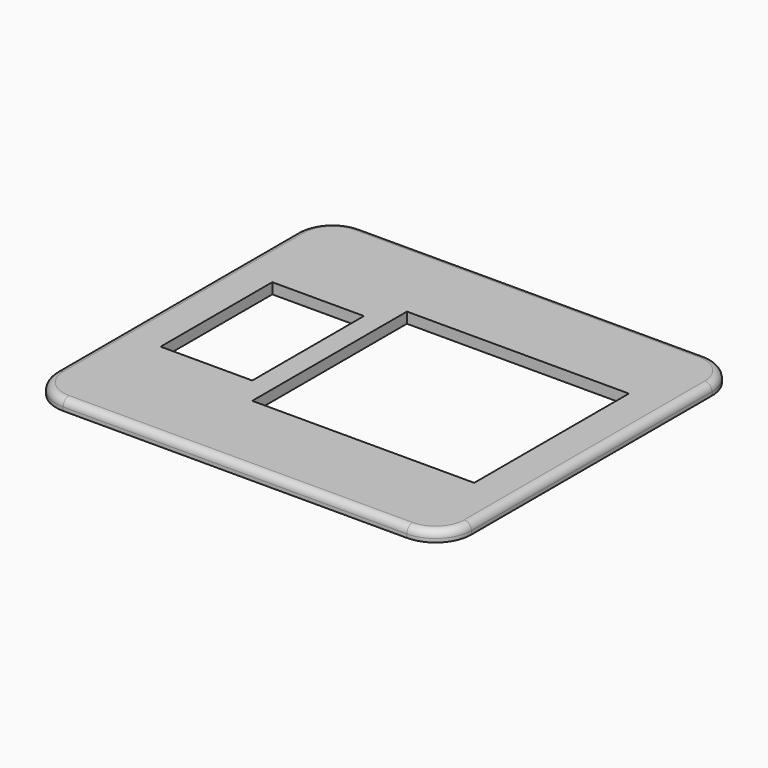
from build123d import *

# Parameters (mm, degrees)
F0_W     = 12.8
F0_H     = 19.5
F0_W_2   = 31
F0_H_2   = 27
F1_DEPTH = 1.5
F2_R     = 1


with BuildPart() as f1:
    # F0 (on Top) → F1 (new body)
    with BuildSketch(Plane.XY):
        with BuildLine():
            Line((-24, -26), (24, -26))
            ThreePointArc((24, -26), (27.535534, -24.535534), (29, -21))
            Line((29, -21), (29, 21))
            ThreePointArc((29, 21), (27.535534, 24.535534), (24, 26))
            Line((24, 26), (-24, 26))
            ThreePointArc((-24, 26), (-27.535534, 24.535534), (-29, 21))
            Line((-29, 21), (-29, -21))
            ThreePointArc((-29, -21), (-27.535534, -24.535534), (-24, -26))
        make_face()
        with Locations((-17, 0)):
            Rectangle(F0_W, F0_H, mode=Mode.SUBTRACT)
        with Locations((7.9, 0)):
            Rectangle(F0_W_2, F0_H_2, mode=Mode.SUBTRACT)
    extrude(amount=F1_DEPTH)

    # F2
    f2_edges = [f1.edges().sort_by_distance(p)[0] for p in [
        (-29, 0, 1.5),
    ]]
    fillet(f2_edges, radius=F2_R)


solid = f1.part
